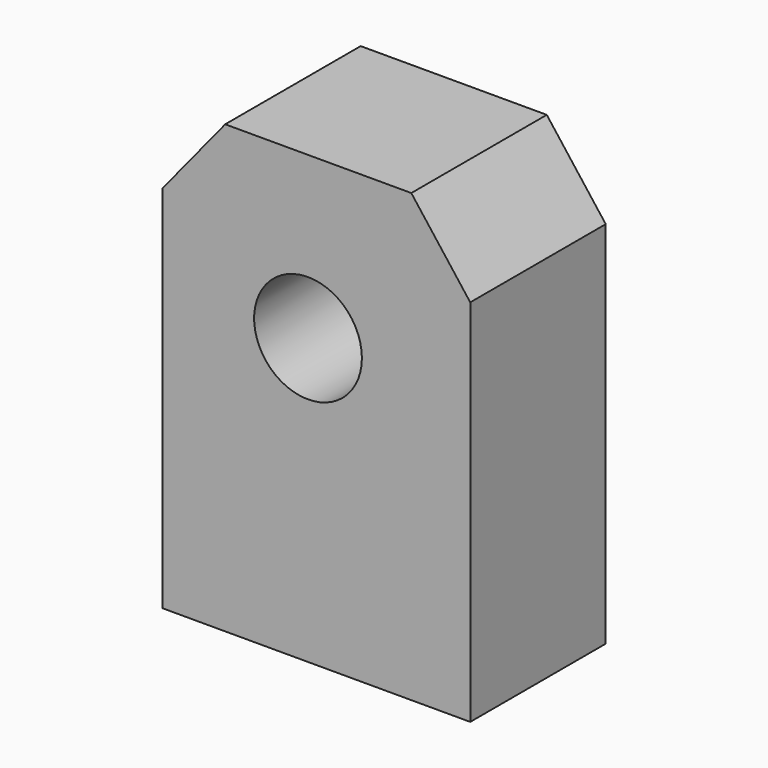
from build123d import *

# Parameters (mm, degrees)
F1_DEPTH = 21.9964
F2_R     = 6.9977
F3_DEPTH = 57.15


with BuildPart() as f1:
    # F0 (on Front) → F1 (new body)
    with BuildSketch(Plane.XZ):
        Polygon((-18.930312, 47.9806), (-18.930312, 0), (21.074688, 0), (21.074688, 47.9806), (13.417236, 57.9882), (-10.758451, 57.9882), align=None)
    extrude(amount=F1_DEPTH)

    # F2 (on Front) → F3 (cut)
    with BuildSketch(Plane.XZ):
        with Locations((0, 37.023666)):
            Circle(F2_R)
    extrude(amount=F3_DEPTH, mode=Mode.SUBTRACT)


solid = f1.part
